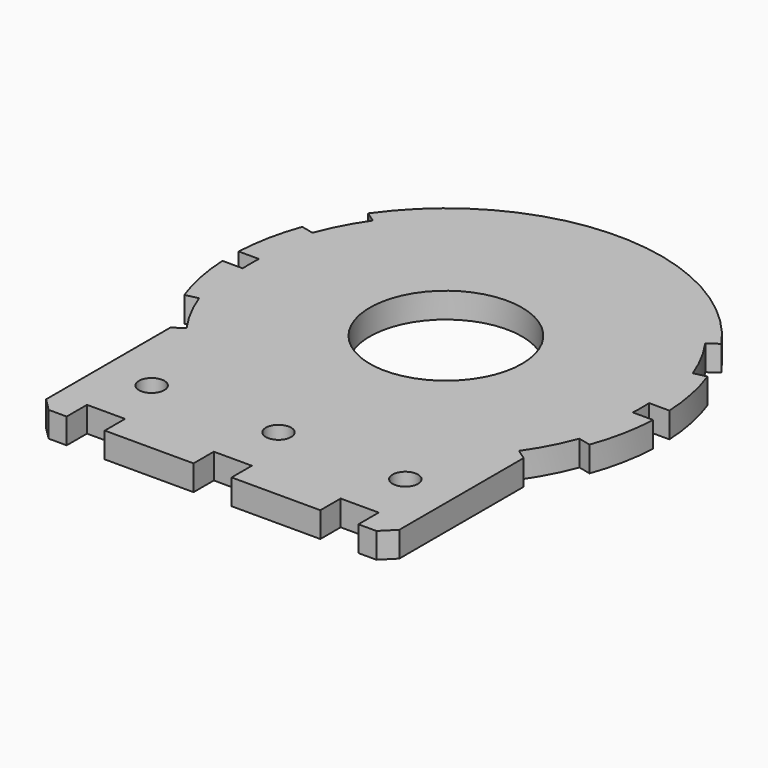
from build123d import *

# Parameters (mm, degrees)
SKETCH006_R     = 3
PAD005_DEPTH    = 1
SKETCH014_R     = 0.5
POCKET002_DEPTH = 2
POCKET003_DEPTH = 5
CHAMFER001_SIZE = 0.5


with BuildPart() as part:
    # Sketch006 (on ShapeBinder) → Pad005 (new body)
    with BuildSketch(Plane(origin=(0, 0, 0), x_dir=(1, 0, 0), z_dir=(0, 0, -1))):
        with BuildLine():
            ThreePointArc((-7.987387, 2.907171), (-8.333808, 1.672617), (-8.490583, 0.4))
            Line((-7.689603, 0.4), (-8.490583, 0.4))
            ThreePointArc((-7.689603, 0.4), (-7.7, 0), (-7.689603, -0.4))
            Line((-7.689603, -0.4), (-8.490583, -0.4))
            ThreePointArc((-8.490583, -0.4), (-8.333808, -1.672617), (-7.987387, -2.907171))
            Line((-7.987387, -2.907171), (-7.496671, -2.792834))
            ThreePointArc((-7.496671, -2.792834), (-7.082093, -3.720747), (-6.553216, -4.588611))
            Line((-6.962792, -4.8754), (-6.553216, -4.588611))
            ThreePointArc((-6.962792, -4.8754), (0, -8.5), (6.962792, -4.8754))
            Line((6.962792, -4.8754), (6.553216, -4.588611))
            ThreePointArc((6.553216, -4.588611), (7.082093, -3.720747), (7.496671, -2.792834))
            Line((7.987387, -2.907171), (7.496671, -2.792834))
            ThreePointArc((7.987387, -2.907171), (8.333808, -1.672617), (8.490583, -0.4))
            Line((8.490583, -0.4), (7.689603, -0.4))
            ThreePointArc((7.689603, -0.4), (7.7, 0), (7.689603, 0.4))
            Line((8.490583, 0.4), (7.689603, 0.4))
            ThreePointArc((8.490583, 0.4), (8.333808, 1.672617), (7.987387, 2.907171))
            Line((7.987387, 2.907171), (7.496671, 2.792834))
            ThreePointArc((7.496671, 2.792834), (7.082093, 3.720747), (6.553216, 4.588611))
            Line((6.962792, 4.8754), (6.553216, 4.588611))
            Line((6.962792, 4.8754), (6.962792, 11.5))
            Line((6.962792, 11.5), (-6.962792, 11.5))
            Line((-6.962792, 4.8754), (-6.962792, 11.5))
            Line((-6.962792, 4.8754), (-6.553216, 4.588611))
            ThreePointArc((-6.553216, 4.588611), (-7.082093, 3.720747), (-7.496671, 2.792834))
            Line((-7.987387, 2.907171), (-7.496671, 2.792834))
        make_face()
        Circle(SKETCH006_R, mode=Mode.SUBTRACT)
    extrude(amount=PAD005_DEPTH)

    # Sketch014 (on Face28 of Pad005) → Pocket002 (cut)
    with BuildSketch(Plane.XY):
        with Locations((0, -8.25)):
            Circle(SKETCH014_R)
        with Locations((-5, -8.25)):
            Circle(SKETCH014_R)
        with Locations((5, -8.25)):
            Circle(SKETCH014_R)
    extrude(amount=-POCKET002_DEPTH, mode=Mode.SUBTRACT)

    # Sketch015 (on Face4 of Pocket002) → Pocket003 (cut)
    with BuildSketch(Plane.XY):
        Polygon((-6.962792, -11.5), (-5.75, -11.5), (-5.75, -10.5), (-4.25, -10.5), (-4.25, -11.5), (-0.75, -11.5), (-0.75, -10.5), (0.75, -10.5), (0.75, -11.5), (4.25, -11.5), (4.25, -10.5), (5.75, -10.5), (5.75, -11.5), (6.962792, -11.5), (6.962792, -12.871278), (-6.962792, -12.871278), align=None)
    extrude(amount=-POCKET003_DEPTH, mode=Mode.SUBTRACT)

    # Chamfer001
    chamfer001_edges = [part.edges().sort_by_distance(p)[0] for p in [
        (-6.962792, -11.5, -0.5),
        (6.962792, -11.5, -0.5),
    ]]
    chamfer(chamfer001_edges, length=CHAMFER001_SIZE)


solid = part.part
